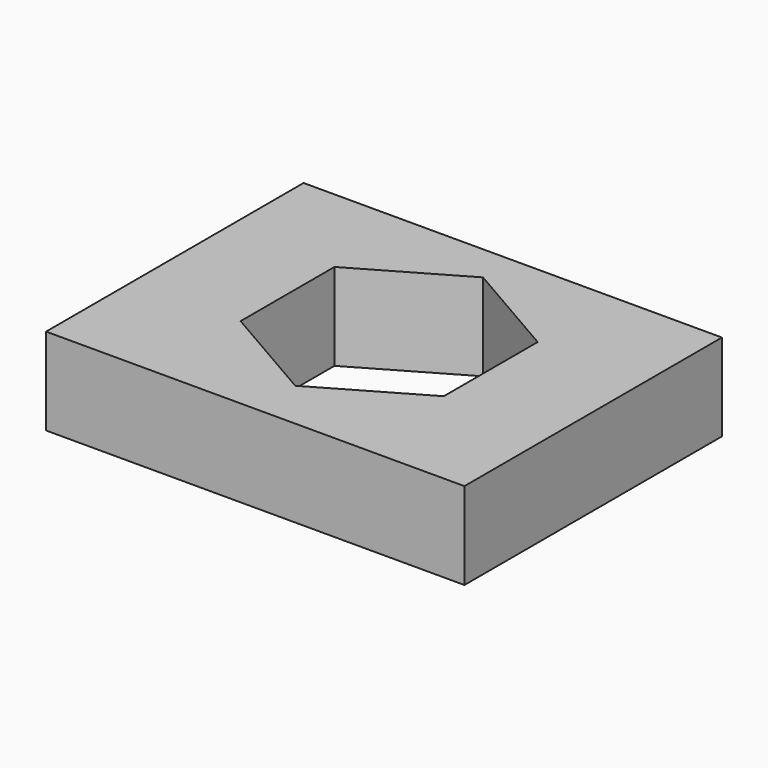
from build123d import *

# Parameters (mm, degrees)
F0_W     = 48.040926
F0_H     = 36.9616
F1_DEPTH = 10
F3_DEPTH = 25.4


with BuildPart() as f1:
    # F0 (on Top) → F1 (new body)
    with BuildSketch(Plane.XY):
        with Locations((-24.020463, -18.4808)):
            Rectangle(F0_W, F0_H)
    extrude(amount=F1_DEPTH)

    # F2 (on face) → F3 (cut)
    with BuildSketch(Plane.XY.offset(10)):
        Polygon((-12.350433, -24.481162), (-12.350433, -11.005771), (-24.020463, -4.268076), (-35.690494, -11.005771), (-35.690494, -24.481162), (-24.020463, -31.218857), align=None)
    extrude(amount=-F3_DEPTH, mode=Mode.SUBTRACT)


solid = f1.part
